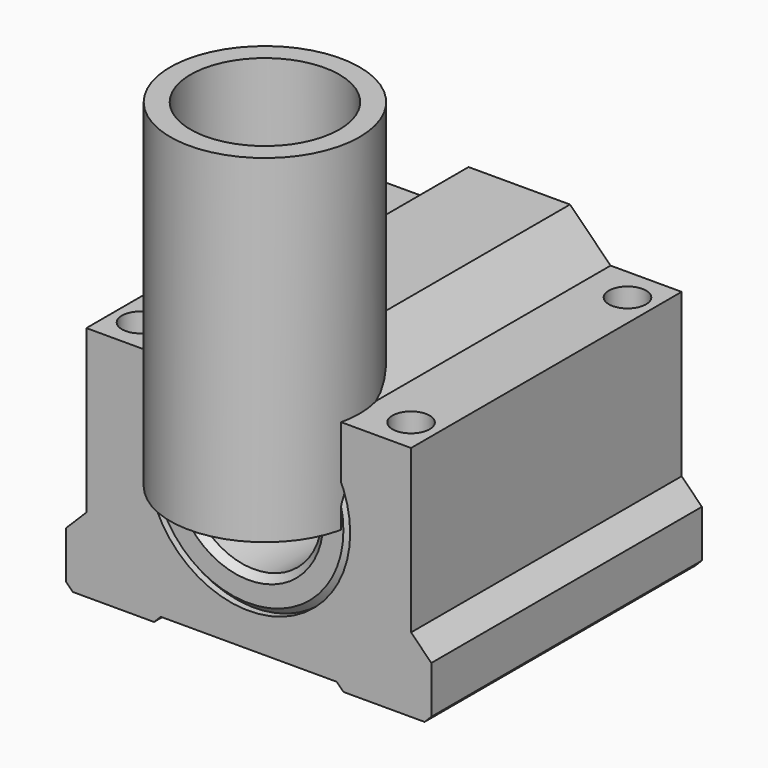
from build123d import *

# Parameters (mm, degrees)
SKETCH002_R        = 14
SKETCH002_R_2      = 11
PAD001_DEPTH       = 50
CYLINDER_R         = 10
CYLINDER_DEPTH     = 50
CYLINDER001_R      = 15
CYLINDER001_DEPTH  = 50
CHAMFER_SIZE       = 1
CHAMFER_ROLL_ANGLE = -90
SKETCH001_R        = 15
PAD_DEPTH          = 50
SKETCH_R           = 2.75
POCKET_DEPTH       = 209.488388


with BuildPart() as pad001:
    # Sketch002 → Pad001 (new body)
    with BuildSketch(Plane.XY.offset(50)):
        with Locations((0, 3)):
            Circle(SKETCH002_R)
        with Locations((0, 3)):
            Circle(SKETCH002_R_2, mode=Mode.SUBTRACT)
    extrude(amount=-PAD001_DEPTH)


with BuildPart() as cilindro:
    # Cylinder → Cylinder (new body)
    with BuildSketch(Plane(origin=(0, 3, 0), x_dir=(1, 0, 0), z_dir=(0, 0, 1))):
        Circle(CYLINDER_R)
    extrude(amount=CYLINDER_DEPTH)


with BuildPart() as rodamiento:
    # Cylinder001 → Cylinder001 (new body)
    with BuildSketch(Plane(origin=(0, 3, 0), x_dir=(1, 0, 0), z_dir=(0, 0, 1))):
        Circle(CYLINDER001_R)
    extrude(amount=CYLINDER001_DEPTH)

    # Cut: cut Cilindro
    add(cilindro.part, mode=Mode.SUBTRACT)

    # Chamfer
    chamfer_edges = [rodamiento.edges().sort_by_distance(p)[0] for p in [
        (-15, 3, 50),
        (-15, 3, 0),
        (-10, 3, 50),
        (-10, 3, 0),
    ]]
    chamfer(chamfer_edges, length=CHAMFER_SIZE)


with BuildPart() as rodamiento_1:
    # Chamfer roll: moved
    add(rodamiento.part.rotate(Axis((0, 0, 0), (1, 0, 0)), CHAMFER_ROLL_ANGLE))


with BuildPart() as rodamiento_2:
    # Chamfer placement: moved
    add(rodamiento_1.part.moved(Location((0, 0, 3))))


with BuildPart() as base:
    # Sketch001 → Pad (new body)
    with BuildSketch(Plane(origin=(0, 0, -3), x_dir=(1, 0, 0), z_dir=(0, -1, 0))):
        Polygon((-27, -17), (-27, -10), (-24, -7), (-24, 17), (-13.5, 17), (-7.5, 23), (7.5, 23), (13.5, 17), (24, 17), (24, -7), (27, -10), (27, -17), (26, -18), (14, -18), (13, -17), (-13, -17), (-14, -18), (-26, -18), align=None)
        with Locations((0, 3)):
            Circle(SKETCH001_R, mode=Mode.SUBTRACT)
    extrude(amount=-PAD_DEPTH)

    # Sketch → Pocket (cut, through all)
    with BuildSketch(Plane(origin=(0, 0, -21), x_dir=(1, 0, 0), z_dir=(0, 0, -1))):
        with Locations((-20, -5)):
            Circle(SKETCH_R)
        with Locations((-20, -45)):
            Circle(SKETCH_R)
    pocket = extrude(amount=-POCKET_DEPTH, mode=Mode.SUBTRACT)

    # Mirrored: Pocket across Sketch V_Axis
    add(pocket.mirror(Plane(origin=(0, 0, -21), x_dir=(0, 0, -1), z_dir=(1, 0, 0))), mode=Mode.SUBTRACT)


solid = Compound([pad001.part, rodamiento_2.part, base.part])
